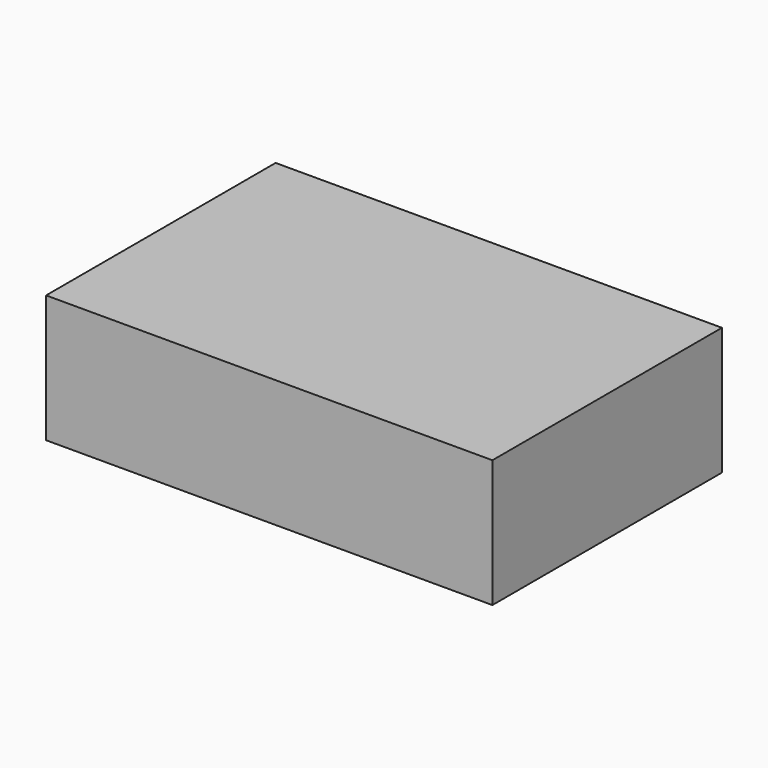
from build123d import *

# Parameters (mm, degrees)
SKETCH_W  = 2.1
SKETCH_H  = 1.35
PAD_DEPTH = 0.6


with BuildPart() as part:
    # Sketch → Pad (new body)
    with BuildSketch(Plane.XY):
        Rectangle(SKETCH_W, SKETCH_H)
    extrude(amount=PAD_DEPTH)


solid = part.part
